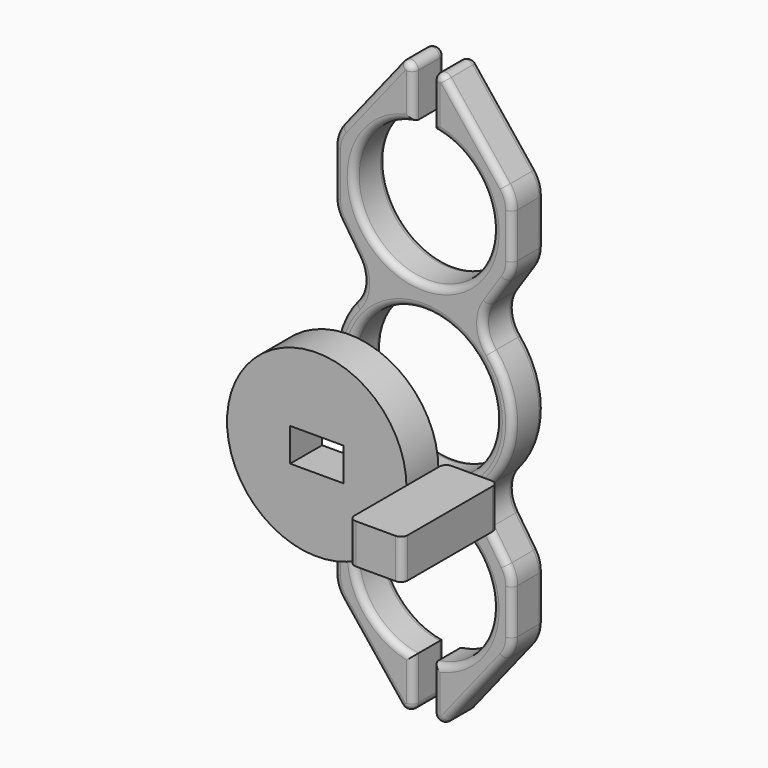
from build123d import *

# Parameters (mm, degrees)
F0_R     = 10.925
F1_DEPTH = 6
F2_R     = 1
F4_DEPTH = 6
F6_START = 20
F5_R     = 13.5
F5_W     = 8
F5_H     = 5
F6_DEPTH = 6


with BuildPart() as f1:
    # F0 (on Front) → F1 (new body)
    with BuildSketch(Plane.XZ):
        with BuildLine():
            ThreePointArc((1.5, 35.316521943), (0, 14.575), (-1.5, 35.316521943))
            Line((-1.5, 35.316521943), (-1.5, 41.8631555635))
            ThreePointArc((-1.5, 41.8631555635), (-2.2339138616, 42.8965248676), (-3.4513735743, 42.544000368))
            Line((-3.4513735743, 42.544000368), (-12.3327616047, 31.3658815178))
            ThreePointArc((-12.3327616047, 31.3658815178), (-13.1389007628, 29.9026207651), (-13.418, 28.2554729308))
            Line((-13.418, 28.2554729308), (-13.418, 21.5143349215))
            ThreePointArc((-13.418, 21.5143349215), (-13.2033388792, 20.0650137663), (-12.5777872756, 18.7401377725))
            Line((-12.5777872756, 18.7401377725), (-9.8800528652, 14.6950030287))
            ThreePointArc((-9.8800528652, 14.6950030287), (-9.0482164962, 11.6315077802), (-10.2283947774, 8.6846222876))
            ThreePointArc((-10.2283947774, 8.6846222876), (-13.418, 0), (-10.2283947774, -8.6846222876))
            ThreePointArc((-10.2283947774, -8.6846222876), (-9.0482164962, -11.6315077802), (-9.8800528652, -14.6950030287))
            Line((-9.8800528652, -14.6950030287), (-12.5777872756, -18.7401377725))
            ThreePointArc((-12.5777872756, -18.7401377725), (-13.2033388792, -20.0650137663), (-13.418, -21.5143349215))
            Line((-13.418, -21.5143349215), (-13.418, -28.2554729308))
            ThreePointArc((-13.418, -28.2554729308), (-13.1389007628, -29.9026207651), (-12.3327616047, -31.3658815178))
            Line((-12.3327616047, -31.3658815178), (-3.4513735743, -42.544000368))
            ThreePointArc((-3.4513735743, -42.544000368), (-2.2339138616, -42.8965248676), (-1.5, -41.8631555635))
            Line((-1.5, -41.8631555635), (-1.5, -35.316521943))
            ThreePointArc((-1.5, -35.316521943), (0, -14.575), (1.5, -35.316521943))
            Line((1.5, -35.316521943), (1.5, -41.8631555635))
            ThreePointArc((1.5, -41.8631555635), (2.2339138616, -42.8965248676), (3.4513735743, -42.544000368))
            Line((3.4513735743, -42.544000368), (12.3327616047, -31.3658815178))
            ThreePointArc((12.3327616047, -31.3658815178), (13.1389007628, -29.9026207651), (13.418, -28.2554729308))
            Line((13.418, -28.2554729308), (13.418, -21.5143349215))
            ThreePointArc((13.418, -21.5143349215), (13.2033388792, -20.0650137663), (12.5777872756, -18.7401377725))
            Line((12.5777872756, -18.7401377725), (9.8800528652, -14.6950030287))
            ThreePointArc((9.8800528652, -14.6950030287), (9.0482164962, -11.6315077802), (10.2283947774, -8.6846222876))
            ThreePointArc((10.2283947774, -8.6846222876), (13.418, 0), (10.2283947774, 8.6846222876))
            ThreePointArc((10.2283947774, 8.6846222876), (9.0482164962, 11.6315077802), (9.8800528652, 14.6950030287))
            Line((9.8800528652, 14.6950030287), (12.5777872756, 18.7401377725))
            ThreePointArc((12.5777872756, 18.7401377725), (13.2033388792, 20.0650137663), (13.418, 21.5143349215))
            Line((13.418, 21.5143349215), (13.418, 28.2554729308))
            ThreePointArc((13.418, 28.2554729308), (13.1389007628, 29.9026207651), (12.3327616047, 31.3658815178))
            Line((12.3327616047, 31.3658815178), (3.4513735743, 42.544000368))
            ThreePointArc((3.4513735743, 42.544000368), (2.2339138616, 42.8965248676), (1.5, 41.8631555635))
            Line((1.5, 41.8631555635), (1.5, 35.316521943))
        make_face()
        Circle(F0_R, mode=Mode.SUBTRACT)
    extrude(amount=F1_DEPTH)

    # F2
    f2_edges = [f1.edges().sort_by_distance(p)[0] for p in [
        (13.418, -6, -24.884904),
        (13.203339, -6, -20.065014),
        (11.22892, -6, -16.71757),
        (9.048216, -6, -11.631508),
        (13.418, -6, 0),
        (9.048216, -6, 11.631508),
        (11.22892, -6, 16.71757),
        (13.203339, -6, 20.065014),
        (13.418, -6, 24.884904),
        (13.138901, -6, 29.902621),
        (7.892068, -6, 36.954941),
        (2.233914, -6, 42.896525),
        (1.5, -6, 38.589839),
        (0, -6, 14.575),
        (-1.5, -6, 38.589839),
        (-2.233914, -6, 42.896525),
        (-7.892068, -6, 36.954941),
        (-13.138901, -6, 29.902621),
        (-13.418, -6, 24.884904),
        (-13.203339, -6, 20.065014),
        (-11.22892, -6, 16.71757),
        (-9.048216, -6, 11.631508),
        (-13.418, -6, 0),
        (-9.048216, -6, -11.631508),
        (-11.22892, -6, -16.71757),
        (-13.203339, -6, -20.065014),
        (-13.418, -6, -24.884904),
        (-13.138901, -6, -29.902621),
        (-7.892068, -6, -36.954941),
        (-2.233914, -6, -42.896525),
        (-1.5, -6, -38.589839),
        (0, -6, -14.575),
        (1.5, -6, -38.589839),
        (2.233914, -6, -42.896525),
        (7.892068, -6, -36.954941),
        (13.138901, -6, -29.902621),
        (-10.925, -6, 0),
        (13.418, 0, -24.884904),
        (13.203339, 0, -20.065014),
        (11.22892, 0, -16.71757),
        (9.048216, 0, -11.631508),
        (13.418, 0, 0),
        (9.048216, 0, 11.631508),
        (11.22892, 0, 16.71757),
        (13.203339, 0, 20.065014),
        (13.418, 0, 24.884904),
        (13.138901, 0, 29.902621),
        (7.892068, 0, 36.954941),
        (2.233914, 0, 42.896525),
        (1.5, 0, 38.589839),
        (0, 0, 14.575),
        (-1.5, 0, 38.589839),
        (-2.233914, 0, 42.896525),
        (-7.892068, 0, 36.954941),
        (-13.138901, 0, 29.902621),
        (-13.418, 0, 24.884904),
        (-13.203339, 0, 20.065014),
        (-11.22892, 0, 16.71757),
        (-9.048216, 0, 11.631508),
        (-13.418, 0, 0),
        (-9.048216, 0, -11.631508),
        (-11.22892, 0, -16.71757),
        (-13.203339, 0, -20.065014),
        (-13.418, 0, -24.884904),
        (-13.138901, 0, -29.902621),
        (-7.892068, 0, -36.954941),
        (-2.233914, 0, -42.896525),
        (-1.5, 0, -38.589839),
        (0, 0, -14.575),
        (1.5, 0, -38.589839),
        (2.233914, 0, -42.896525),
        (7.892068, 0, -36.954941),
        (13.138901, 0, -29.902621),
        (-10.925, 0, 0),
    ]]
    fillet(f2_edges, radius=F2_R)


with BuildPart() as f4:
    # F3 (on Top) → F4 (new body)
    with BuildSketch(Plane.XY):
        with BuildLine():
            Line((27.347636193, -27.3550294042), (21.347636193, -27.3550294042))
            ThreePointArc((21.347636193, -27.3550294042), (20.6405294119, -27.647922623), (20.347636193, -28.3550294042))
            Line((20.347636193, -28.3550294042), (20.347636193, -44.3550294042))
            ThreePointArc((20.347636193, -44.3550294042), (20.6405294119, -45.0621361853), (21.347636193, -45.3550294042))
            Line((21.347636193, -45.3550294042), (27.347636193, -45.3550294042))
            ThreePointArc((27.347636193, -45.3550294042), (28.0547429742, -45.0621361853), (28.347636193, -44.3550294042))
            Line((28.347636193, -44.3550294042), (28.347636193, -28.3550294042))
            ThreePointArc((28.347636193, -28.3550294042), (28.0547429742, -27.647922623), (27.347636193, -27.3550294042))
        make_face()
    extrude(amount=F4_DEPTH)


with BuildPart() as f6:
    # F5 (on Front) → F6 (new body)
    with BuildSketch(Plane.XZ.offset(F6_START)):
        Circle(F5_R)
        Rectangle(F5_W, F5_H, mode=Mode.SUBTRACT)
    extrude(amount=F6_DEPTH)


solid = Compound([f1.part, f4.part, f6.part])
